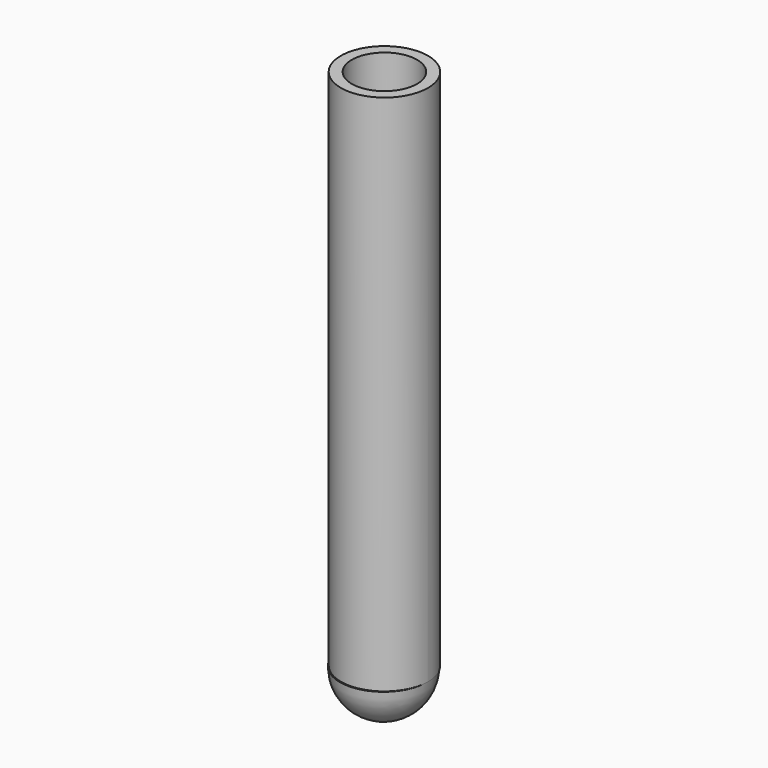
from build123d import *

# Parameters (mm, degrees)
F0_R     = 50.8
F0_R_2   = 38.1
F1_DEPTH = 609.6


with BuildPart() as f1:
    # F0 (on Top) → F1 (new body)
    with BuildSketch(Plane.XY):
        with Locations((0, 1.272181)):
            Circle(F0_R)
        with Locations((0, 1.272181)):
            Circle(F0_R_2, mode=Mode.SUBTRACT)
    extrude(amount=F1_DEPTH)

    # F2 (on Front) → F3 (revolve)
    with BuildSketch(Plane.XZ):
        with BuildLine():
            Line((-38.1, 0), (-50.8, 0))
            ThreePointArc((-50.8, 0), (-35.921024, -35.921024), (0, -50.8))
            Line((0, -50.8), (0, -38.1))
            ThreePointArc((0, -38.1), (-26.940768, -26.940768), (-38.1, 0))
        make_face()
    revolve(axis=Axis((0, 0, -44.45), (0, 0, -1)))


solid = f1.part
